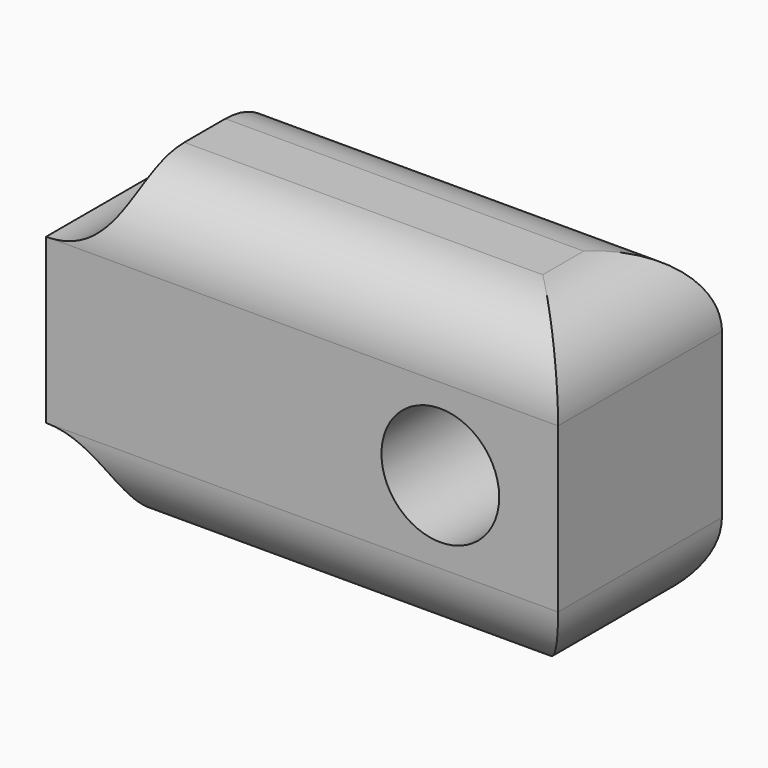
from build123d import *

# Parameters (mm, degrees)
F0_R     = 1.15
F1_DEPTH = 4
F2_R     = 1.5
F3_DEPTH = 5
F4_R     = 1.5


with BuildPart() as f1:
    # F0 (on Front) → F1 (new body)
    with BuildSketch(Plane.XZ):
        with BuildLine():
            Line((5, 3.1), (-3.5, 3.1))
            ThreePointArc((-3.5, 3.1), (-3.93934, 2.03934), (-5, 1.6))
            Line((-5, 1.6), (-5, -1.6))
            ThreePointArc((-5, -1.6), (-3.93934, -2.03934), (-3.5, -3.1))
            Line((-3.5, -3.1), (5, -3.1))
            Line((5, -3.1), (5, 3.1))
        make_face()
        with Locations((2.7, 0)):
            Circle(F0_R, mode=Mode.SUBTRACT)
    extrude(amount=F1_DEPTH)

    # F2 (on face) → F3 (cut)
    with BuildSketch(Plane(origin=(-5, 0, 0), x_dir=(0, -1, 0), z_dir=(-1, 0, 0))):
        with Locations((2, 0)):
            Circle(F2_R)
    extrude(amount=-F3_DEPTH, mode=Mode.SUBTRACT)

    # F4
    f4_edges = [f1.edges().sort_by_distance(p)[0] for p in [
        (5, -2, 3.1),
        (0.75, -4, 3.1),
        (0.75, 0, 3.1),
        (0.75, -4, -3.1),
        (5, -2, -3.1),
        (0.75, 0, -3.1),
    ]]
    fillet(f4_edges, radius=F4_R)


solid = f1.part
